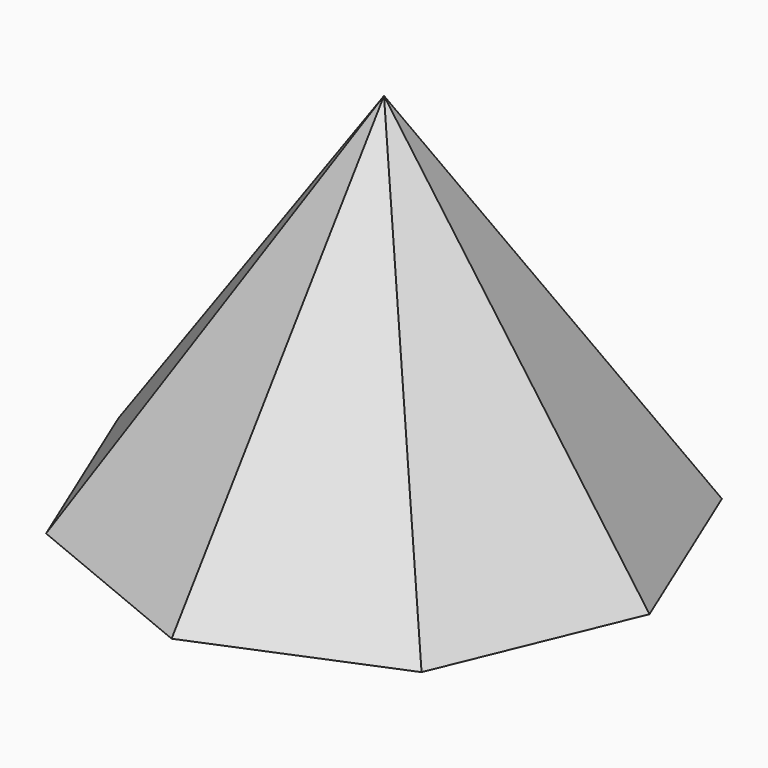
from build123d import *


with BuildPart() as f3:
    # F0 (on Top) → F3 section 0
    with BuildSketch(Plane.XY, mode=Mode.PRIVATE) as f3_s0:
        Polygon((50.738705, 50.738705), (0, 71.755365), (-50.738705, 50.738705), (-71.755365, 0), (-50.738705, -50.738705), (0, -71.755365), (50.738705, -50.738705), (71.755365, 0), align=None)
    loft([Vertex(0, 0, 100), f3_s0.sketch])


solid = f3.part
